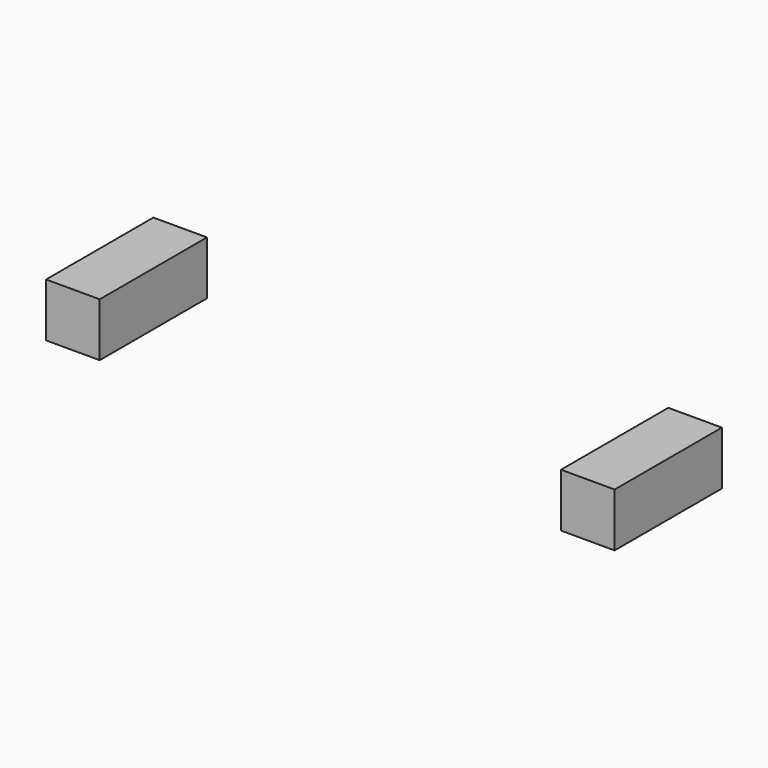
from build123d import *

# Parameters (mm, degrees)
BOX021_W     = 10
BOX021_H     = 25
BOX021_DEPTH = 10


with BuildPart() as agujeros_new:
    # Box021 → Box021 (new body)
    with BuildSketch(Plane(origin=(43, 0, 33), x_dir=(1, 0, 0), z_dir=(0, 0, 1))):
        with Locations((5, 12.5)):
            Rectangle(BOX021_W, BOX021_H)
    extrude(amount=BOX021_DEPTH)


with BuildPart() as part_mirroring027:
    # Part__Mirroring027: instance of agujeros-new
    add(agujeros_new.part.mirror(Plane(origin=(0, 0, 0), x_dir=(0, -1, 0), z_dir=(1, 0, 0))))


with BuildPart() as obj1:
    # Fusion001054 base: copy of agujeros-new
    add(agujeros_new.part)

    # Fusion001054: union Part__Mirroring027
    add(part_mirroring027.part)


solid = obj1.part
